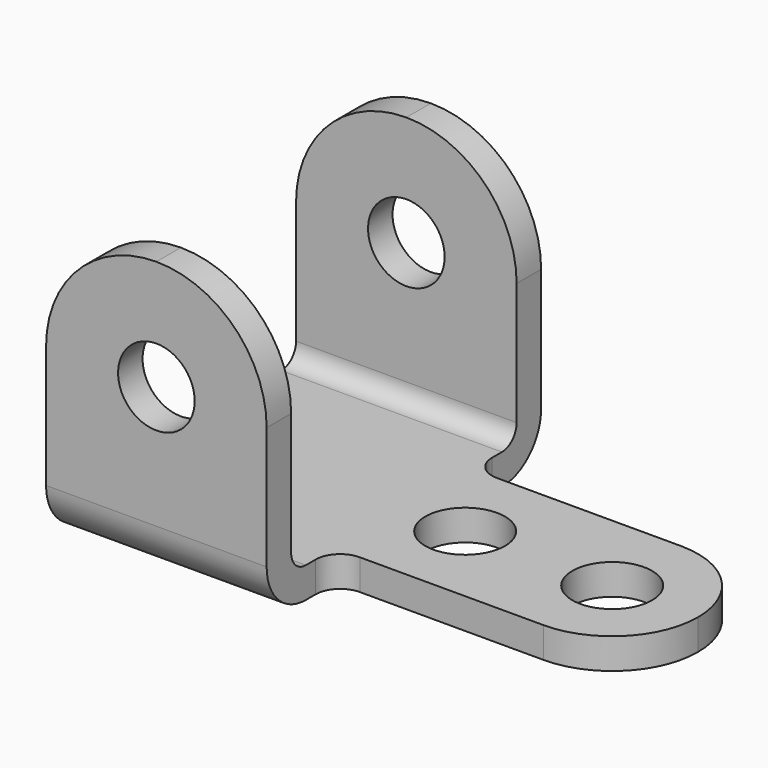
from build123d import *

# Parameters (mm, degrees)
F1_DEPTH = 133.35
F3_DEPTH = 88.901
F4_R     = 9.92251
F5_DEPTH = 88.901
F6_R     = 10.3251
F7_DEPTH = 25.4
F8_R     = 4.7625
F9_R     = 12.7


with BuildPart() as f1:
    # F0 (on Right) → F1 (new body)
    with BuildSketch(Plane.YZ):
        Polygon((44.45, 0), (44.45, 73.025), (36.5125, 73.025), (36.5125, 7.9375), (-36.5125, 7.9375), (-36.5125, 73.025), (-44.45, 73.025), (-44.45, 0), align=None)
    extrude(amount=F1_DEPTH)

    # F2 (on face) → F3 (cut, through all)
    with BuildSketch(Plane.XZ.offset(44.45)):
        with BuildLine():
            ThreePointArc((0, 44.45), (8.369424, 64.655576), (28.575, 73.025))
            Line((28.575, 73.025), (0, 73.025))
            Line((0, 73.025), (0, 44.45))
        make_face()
        with BuildLine():
            ThreePointArc((28.575, 73.025), (48.780576, 64.655576), (57.15, 44.45))
            Line((57.15, 44.45), (57.15, 7.9375))
            Line((57.15, 7.9375), (133.35, 7.9375))
            Line((133.35, 7.9375), (133.35, 73.025))
            Line((133.35, 73.025), (28.575, 73.025))
        make_face()
    extrude(amount=-F3_DEPTH, mode=Mode.SUBTRACT)

    # F4 (on face) → F5 (cut, through all)
    with BuildSketch(Plane.XZ.offset(44.45)):
        with Locations((28.575, 44.45)):
            Circle(F4_R)
    extrude(amount=-F5_DEPTH, mode=Mode.SUBTRACT)

    # F6 (on face) → F7 (cut)
    with BuildSketch(Plane.XY.offset(7.9375)):
        with Locations((73.025, 0)):
            Circle(F6_R)
        with Locations((111.125, 0)):
            Circle(F6_R)
        with BuildLine():
            ThreePointArc((111.125, 22.225), (126.840448, 15.715448), (133.35, 0))
            Line((133.35, 0), (133.35, 44.45))
            Line((133.35, 44.45), (57.15, 44.45))
            Line((57.15, 44.45), (57.15, 36.5125))
            Line((57.15, 36.5125), (57.15, 28.575))
            ThreePointArc((57.15, 28.575), (59.009872, 24.084872), (63.5, 22.225))
            Line((63.5, 22.225), (111.125, 22.225))
        make_face()
        with BuildLine():
            ThreePointArc((133.35, 0), (126.840448, -15.715448), (111.125, -22.225))
            Line((111.125, -22.225), (63.5, -22.225))
            ThreePointArc((63.5, -22.225), (59.009872, -24.084872), (57.15, -28.575))
            Line((57.15, -28.575), (57.15, -36.5125))
            Line((57.15, -36.5125), (57.15, -44.45))
            Line((57.15, -44.45), (133.35, -44.45))
            Line((133.35, -44.45), (133.35, 0))
        make_face()
    extrude(amount=-F7_DEPTH, mode=Mode.SUBTRACT)

    # F8
    f8_edges = [f1.edges().sort_by_distance(p)[0] for p in [
        (28.575, 36.5125, 7.9375),
        (28.575, -36.5125, 7.9375),
    ]]
    fillet(f8_edges, radius=F8_R)

    # F9
    f9_edges = [f1.edges().sort_by_distance(p)[0] for p in [
        (28.575, -44.45, 0),
        (28.575, 44.45, 0),
    ]]
    fillet(f9_edges, radius=F9_R)


solid = f1.part
